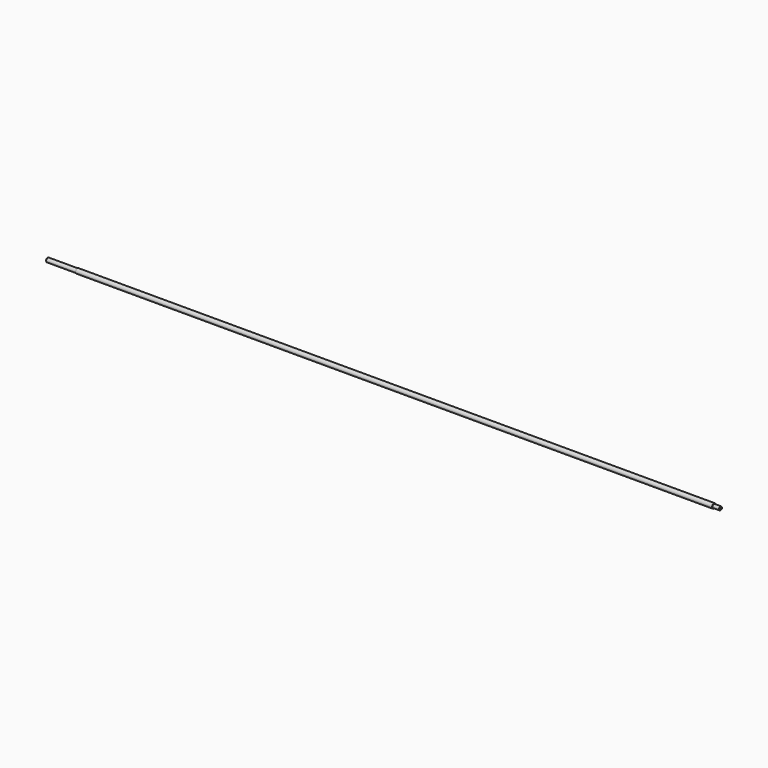
from build123d import *

# Parameters (mm, degrees)
F0_R     = 4
F1_DEPTH = 1097
F2_R     = 3.5
F3_DEPTH = 52
F4_R     = 3
F5_DEPTH = 12
F6_SIZE  = 0.75
F7_SIZE  = 0.75


with BuildPart() as f1:
    # F0 (on Right) → F1 (new body)
    with BuildSketch(Plane.YZ):
        Circle(F0_R)
    extrude(amount=F1_DEPTH)

    # F2 (on Right) → F3 (join)
    with BuildSketch(Plane.YZ):
        Circle(F2_R)
    extrude(amount=-F3_DEPTH)

    # F4 (on face) → F5 (join)
    with BuildSketch(Plane.YZ.offset(1097)):
        Circle(F4_R)
    extrude(amount=F5_DEPTH)

    # F6
    f6_edges = [f1.edges().sort_by_distance(p)[0] for p in [
        (1109, -3, 0),
    ]]
    chamfer(f6_edges, length=F6_SIZE)

    # F7
    f7_edges = [f1.edges().sort_by_distance(p)[0] for p in [
        (-52, -3.5, 0),
    ]]
    chamfer(f7_edges, length=F7_SIZE)


solid = f1.part
